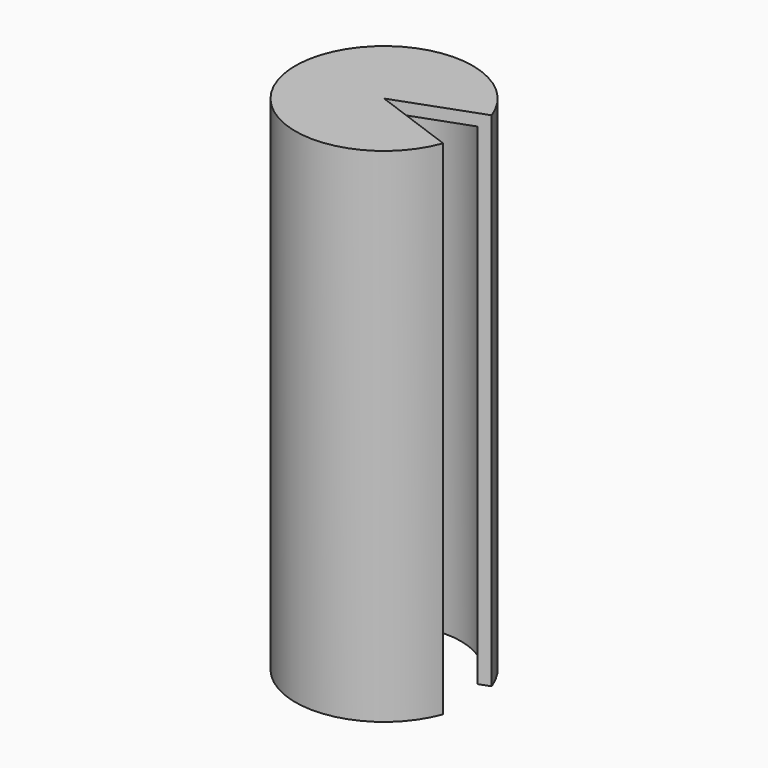
from build123d import *

# Parameters (mm, degrees)
F2_ANGLE = 320


with BuildPart() as f2:
    # F0 (on Front) → F2 (revolve, symmetric)
    with BuildSketch(Plane.XZ) as f2_sk:
        Polygon((0, 36.260698), (0, 38.260698), (-15, 38.260698), (-15, -46.739302), (-13, -46.739302), (-13, 36.260698), align=None)
    revolve(axis=Axis((0, 0, -8.945528), (0, 0, -1)), revolution_arc=F2_ANGLE / 2)
    revolve(f2_sk.sketch, axis=Axis((0, 0, -8.945528), (0, 0, 1)), revolution_arc=F2_ANGLE / 2)


solid = f2.part
